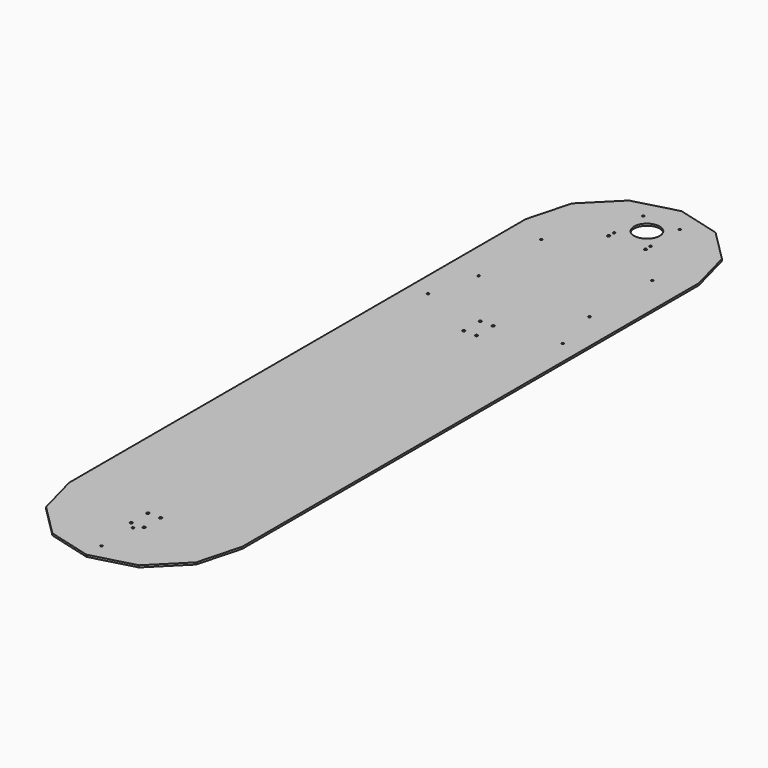
from build123d import *

# Parameters (mm, degrees)
F1_DEPTH = 3.175
F2_R     = 20.6375
F2_R_2   = 1.7272
F2_R_3   = 2.15265
F3_DEPTH = 3.175
F4_R     = 2.15265
F5_DEPTH = 3.175


with BuildPart() as f1:
    # F0 (on Top) → F1 (new body)
    with BuildSketch(Plane.XY):
        Polygon((279.4, -920.674486), (279.4, 0), (260.683749, 69.85), (209.55, 120.983749), (139.7, 139.7), (69.85, 120.983749), (18.716251, 69.85), (0, 0), (0, -920.674486), (18.716251, -990.524486), (69.85, -1041.658235), (139.7, -1060.374486), (209.55, -1041.658235), (260.683749, -990.524486), align=None)
    extrude(amount=F1_DEPTH)

    # F2 (on face) → F3 (cut, through all)
    with BuildSketch(Plane.XY.offset(3.175)):
        with Locations((139.7, 69.815902)):
            Circle(F2_R)
        with Locations((229.093993, -31.136842)):
            Circle(F2_R_2)
        with Locations((229.093993, -157.74139)):
            Circle(F2_R_2)
        with Locations((110.33125, 40.447152)):
            Circle(F2_R_2)
        with Locations((169.06875, 40.447152)):
            Circle(F2_R_2)
        with Locations((169.06875, 99.184652)):
            Circle(F2_R_2)
        with Locations((110.33125, 99.184652)):
            Circle(F2_R_2)
        with Locations((50.306007, -157.74139)):
            Circle(F2_R_2)
        with Locations((50.306007, -31.136842)):
            Circle(F2_R_2)
        with Locations((248.34149, -235.726616)):
            Circle(F2_R_2)
        with Locations((31.05851, -235.726616)):
            Circle(F2_R_2)
        with Locations((150.01875, -286.526616)):
            Circle(F2_R_3)
        with Locations((129.38125, -286.526616)):
            Circle(F2_R_3)
        with Locations((129.38125, -253.189116)):
            Circle(F2_R_3)
        with Locations((150.01875, -253.189116)):
            Circle(F2_R_3)
        with Locations((129.38125, -923.681501)):
            Circle(F2_R_3)
        with Locations((150.01875, -923.681501)):
            Circle(F2_R_3)
        with Locations((150.01875, -957.019001)):
            Circle(F2_R_3)
        with Locations((129.38125, -957.019001)):
            Circle(F2_R_3)
        with Locations((139.7, -966.544001)):
            Circle(F2_R_2)
        with Locations((139.7, -1030.044001)):
            Circle(F2_R_2)
    extrude(amount=-F3_DEPTH, mode=Mode.SUBTRACT)

    # F4 (on face) → F5 (cut, through all)
    with BuildSketch(Plane.XY.offset(3.175)):
        with Locations((109.951253, 29.748759)):
            Circle(F4_R)
        with Locations((169.448747, 29.748759)):
            Circle(F4_R)
    extrude(amount=-F5_DEPTH, mode=Mode.SUBTRACT)


solid = f1.part
